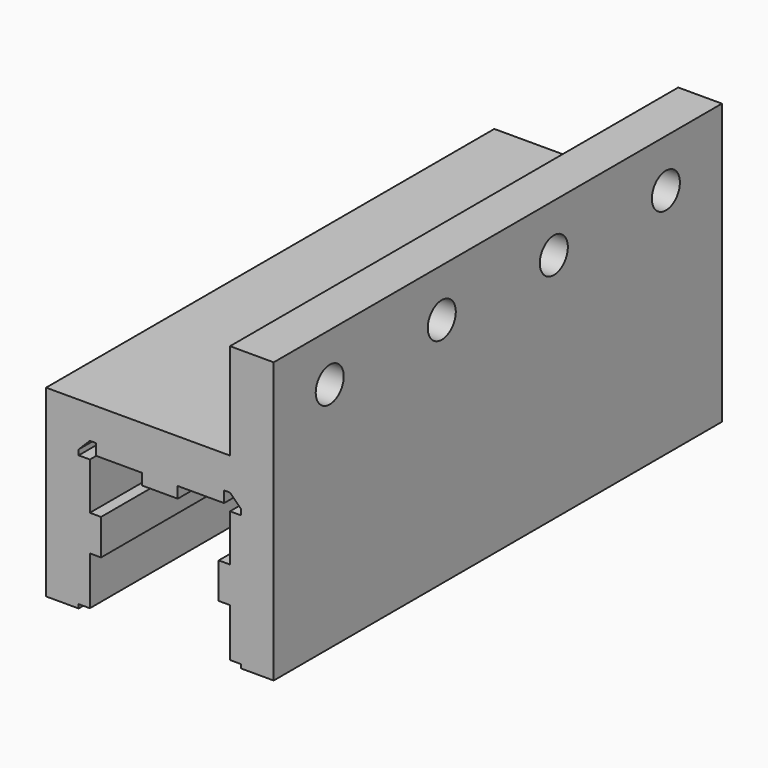
from build123d import *

# Parameters (mm, degrees)
F0_W     = 7.9248
F0_H     = 17.4625
F0_W_2   = 6.477
F0_H_2   = 2.032
F1_DEPTH = 101.6
F2_R     = 3.175
F3_DEPTH = 7.9258


with BuildPart() as f1:
    # F0 (on Front) → F1 (new body)
    with BuildSketch(Plane.XZ):
        Polygon((12.7127, 16.66875), (-20.6375, 16.66875), (-20.6375, -16.66875), (-14.732, -16.66875), (-14.732, -15.970875), (-14.732, 7.775698), (-14.732, 8.73125), (-12.7, 10.76325), (-11.605977, 10.76325), (11.64566, 10.76325), (12.7127, 10.76325), align=None)
        Polygon((20.6375, 16.66875), (12.7127, 16.66875), (12.7127, 10.76325), (14.7447, 8.73125), (14.7447, 7.775698), (14.7447, -15.970875), (14.7447, -16.66875), (20.6375, -16.66875), align=None)
        with Locations((16.6751, 25.4)):
            Rectangle(F0_W, F0_H)
        Polygon((14.7447, -15.970875), (14.7447, 7.775698), (12.7127, 7.775698), (12.7, -0.73025), (10.668, -0.73025), (10.668, -3.96875), (10.668, -7.20725), (12.7, -7.20725), (12.7, -15.970875), align=None)
        Polygon((14.7447, -15.970875), (14.7447, 7.775698), (12.7127, 7.775698), (12.7, -0.73025), (10.668, -0.73025), (10.668, -3.96875), (10.668, -7.20725), (12.7, -7.20725), (12.7, -15.970875), align=None)
        Polygon((-12.7, -0.73025), (-12.7, -7.20725), (-10.668, -7.20725), (-10.668, -3.96875), (-10.668, -0.73025), align=None)
        Polygon((-14.732, 7.775698), (-14.732, -15.970875), (-12.7, -15.970875), (-12.7, -7.20725), (-12.7, -0.73025), (-12.7, 7.775698), align=None)
        with Locations((0, 7.71525)):
            Rectangle(F0_W_2, F0_H_2)
        Polygon((11.64566, 8.73125), (11.64566, 10.76325), (-11.605977, 10.76325), (-11.605977, 8.73125), (-3.2385, 8.73125), (3.2385, 8.73125), align=None)
    extrude(amount=F1_DEPTH)

    # F2 (on face) → F3 (cut, through all)
    with BuildSketch(Plane(origin=(12.7127, 0, 0), x_dir=(0, -1, 0), z_dir=(-1, 0, 0))):
        with Locations((12.7, 25.41905)):
            Circle(F2_R)
        with Locations((38.1, 25.41905)):
            Circle(F2_R)
        with Locations((63.5, 25.41905)):
            Circle(F2_R)
        with Locations((88.9, 25.41905)):
            Circle(F2_R)
    extrude(amount=-F3_DEPTH, mode=Mode.SUBTRACT)


solid = f1.part
